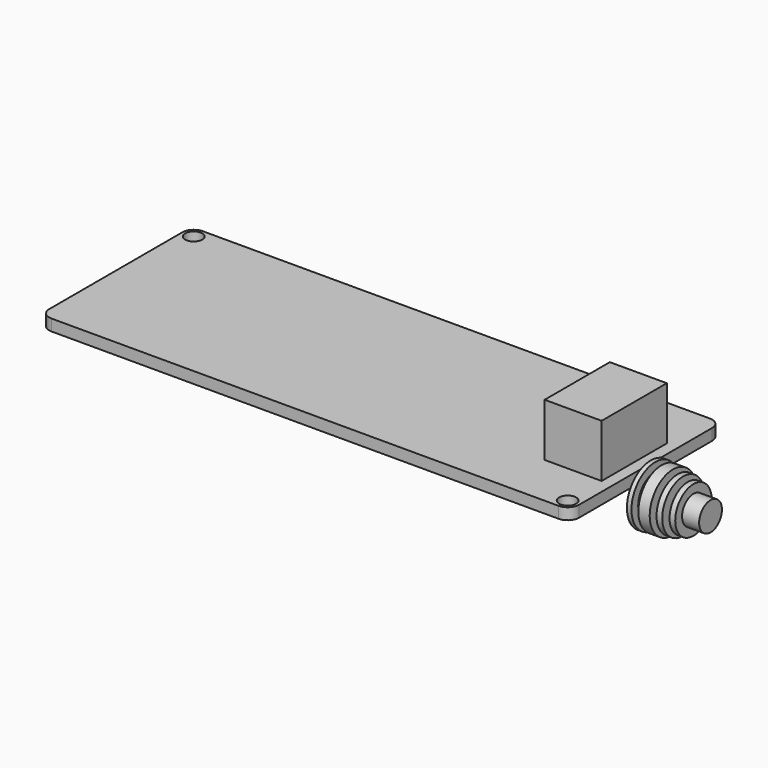
from build123d import *

# Parameters (mm, degrees)
F0_R      = 1.5
F1_DEPTH  = 2
F2_W      = 10
F2_H      = 14.3
F3_DEPTH  = 9.3
F4_W      = 12.45
F4_H      = 5
F4_W_2    = 10.4
F4_H_2    = 1.5
F5_DEPTH  = 9
F7_DEPTH  = 4.5
F8_START  = 1
F8_DEPTH  = 3
F6_W      = 11.7
F6_H      = 0.5
F6_W_2    = 6
F6_H_2    = 11
F11_DEPTH = 4


with BuildPart() as f1:
    # F0 (on Top) → F1 (new body)
    with BuildSketch(Plane.XY):
        with BuildLine():
            Line((91, 0), (2, 0))
            ThreePointArc((2, 0), (0.5857864376, -0.5857864376), (0, -2))
            Line((0, -2), (0, -31.2))
            ThreePointArc((0, -31.2), (0.5857864376, -32.6142135624), (2, -33.2))
            Line((2, -33.2), (91, -33.2))
            ThreePointArc((91, -33.2), (92.4142135624, -32.6142135624), (93, -31.2))
            Line((93, -31.2), (93, -2))
            ThreePointArc((93, -2), (92.4142135624, -0.5857864376), (91, 0))
        make_face()
        with Locations((91, -31.2)):
            Circle(F0_R, mode=Mode.SUBTRACT)
        with Locations((2, -2)):
            Circle(F0_R, mode=Mode.SUBTRACT)
    extrude(amount=F1_DEPTH)


with BuildPart() as f3:
    # F2 (on face) → F3 (new body)
    with BuildSketch(Plane.XY.offset(2)):
        with Locations((86, -16.6)):
            Rectangle(F2_W, F2_H)
    extrude(amount=F3_DEPTH)

    # F4 (on face) → F5 (cut)
    with BuildSketch(Plane(origin=(81, 0, 0), x_dir=(0, -1, 0), z_dir=(-1, 0, 0))):
        with Locations((16.6, 7.9)):
            Rectangle(F4_W, F4_H)
        with Locations((16.6, 7.05)):
            Rectangle(F4_W_2, F4_H_2, mode=Mode.SUBTRACT)
    extrude(amount=-F5_DEPTH, mode=Mode.SUBTRACT)


with BuildPart() as f7:
    # F6 (on face) → F7 (new body)
    with BuildSketch(Plane(origin=(0, 0, 0), x_dir=(1, 0, 0), z_dir=(0, 0, -1))):
        Polygon((79, 21.85), (72, 21.85), (72, 11.35), (79, 11.35), (79, 11.55), (79, 21.65), align=None)
    extrude(amount=F7_DEPTH)


with BuildPart() as f8:
    # F6 (on face) → F8 (new body)
    with BuildSketch(Plane(origin=(0, 0, 0), x_dir=(1, 0, 0), z_dir=(0, 0, -1)).offset(F8_START)):
        Polygon((81.3, 21.65), (79, 21.65), (79, 11.55), (81.3, 11.55), (81.3, 16.6), (81.3, 17.1), align=None)
        Polygon((81.3, 21.65), (79, 21.65), (79, 11.55), (81.3, 11.55), (81.3, 16.6), (81.3, 17.1), align=None)
    extrude(amount=F8_DEPTH)


with BuildPart() as f9:
    # F6 (on face) → F9 (revolve)
    with BuildSketch(Plane(origin=(0, 0, 0), x_dir=(1, 0, 0), z_dir=(0, 0, -1))):
        Polygon((93.3, 17.1), (93, 17.1), (93, 16.6), (104.4, 16.6), (104.4, 19.1), (101.4, 19.1), (101.4, 20.6), (100.4, 20.6), (100.4, 19.1), (99.6, 19.1), (99.6, 21.2), (98.6, 21.2), (98.6, 19.1), (97.8, 19.1), (97.8, 21.7), (95.8, 21.7), (95.8, 20.35), (94.7, 20.35), (94.7, 21.825), (93.9, 21.825), (93.9, 19.1), (93.3, 19.1), align=None)
        with Locations((87.15, 16.85)):
            Rectangle(F6_W, F6_H)
    revolve(axis=Axis((89.822830677, -16.6, 0), (1, 0, 0)))


with BuildPart() as f9_1:
    # F10: moved
    add(f9.part.moved(Location((0, 0, -2))))


with BuildPart() as f11:
    # F6 (on face) → F11 (new body)
    with BuildSketch(Plane(origin=(0, 0, 0), x_dir=(1, 0, 0), z_dir=(0, 0, -1))):
        with Locations((3, 16.6)):
            Rectangle(F6_W_2, F6_H_2)
    extrude(amount=F11_DEPTH)


solid = Compound([f1.part, f3.part, f7.part, f8.part, f9_1.part, f11.part])
